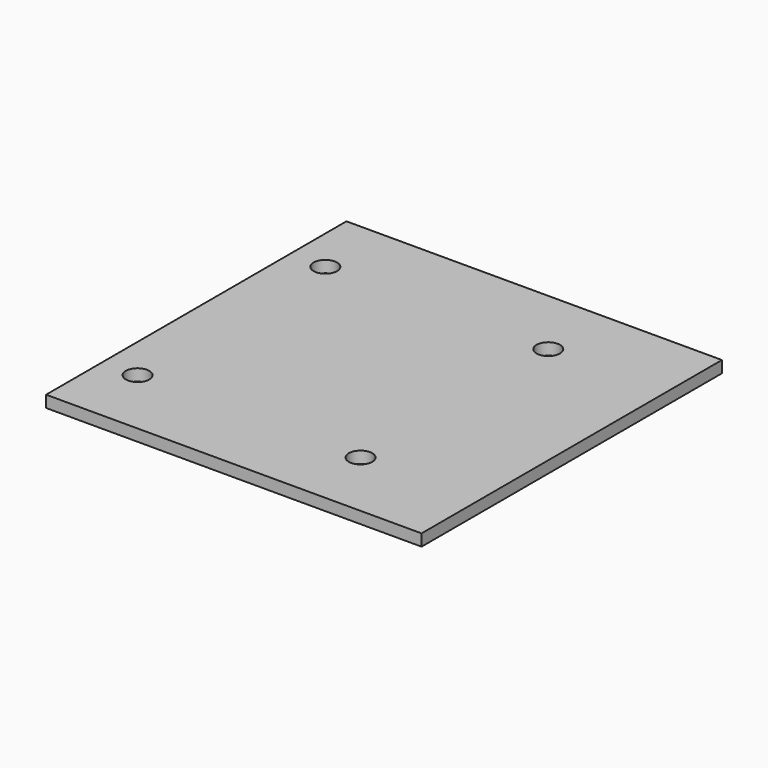
from build123d import *

# Parameters (mm, degrees)
F0_W     = 160
F0_H     = 160
F1_DEPTH = 5
F3_D     = 10


with BuildPart() as f1:
    # F0 (on Top) → F1 (new body)
    with BuildSketch(Plane.XY):
        with Locations((-80, 80)):
            Rectangle(F0_W, F0_H)
    extrude(amount=F1_DEPTH)

    # F3 (through all)
    with Locations(Plane.XY.offset(5)):
        with Locations((-50, 30), (-145, 30), (-50, 130), (-145, 130)):
            Hole(F3_D / 2)


solid = f1.part
